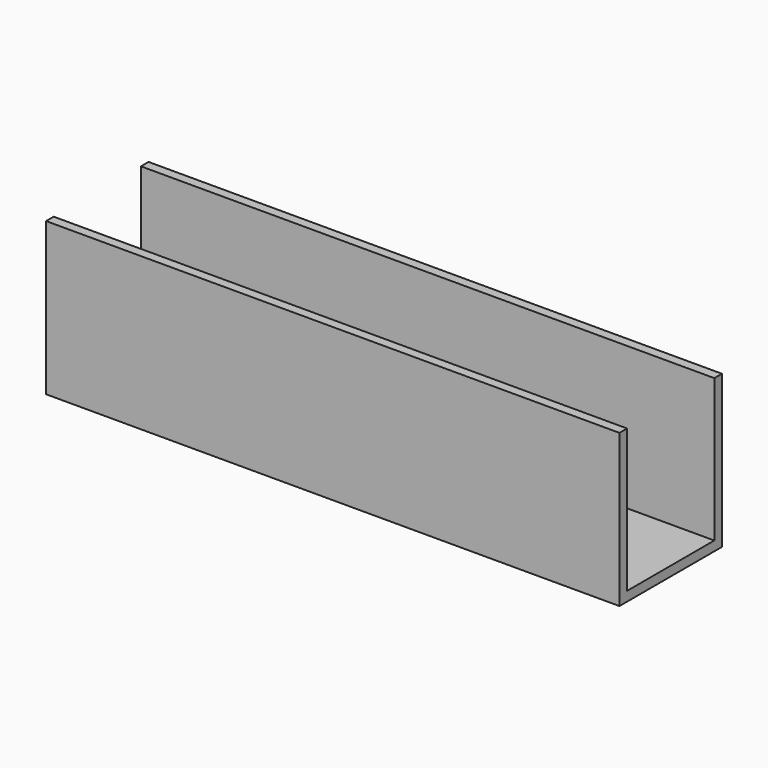
from build123d import *

# Parameters (mm, degrees)
F0_W     = 191.008
F0_H     = 50.8
F1_DEPTH = 21.336
F2_W     = 36.322
F2_H     = 47.625
F3_DEPTH = 191.009


with BuildPart() as f1:
    # F0 (on Front) → F1 (new body, symmetric)
    with BuildSketch(Plane.XZ):
        with Locations((95.504, 25.4)):
            Rectangle(F0_W, F0_H)
    extrude(amount=F1_DEPTH, both=True)

    # F2 (on Right) → F3 (cut, through all)
    with BuildSketch(Plane.YZ):
        with Locations((0, 26.9875)):
            Rectangle(F2_W, F2_H)
    extrude(amount=F3_DEPTH, mode=Mode.SUBTRACT)


solid = f1.part
